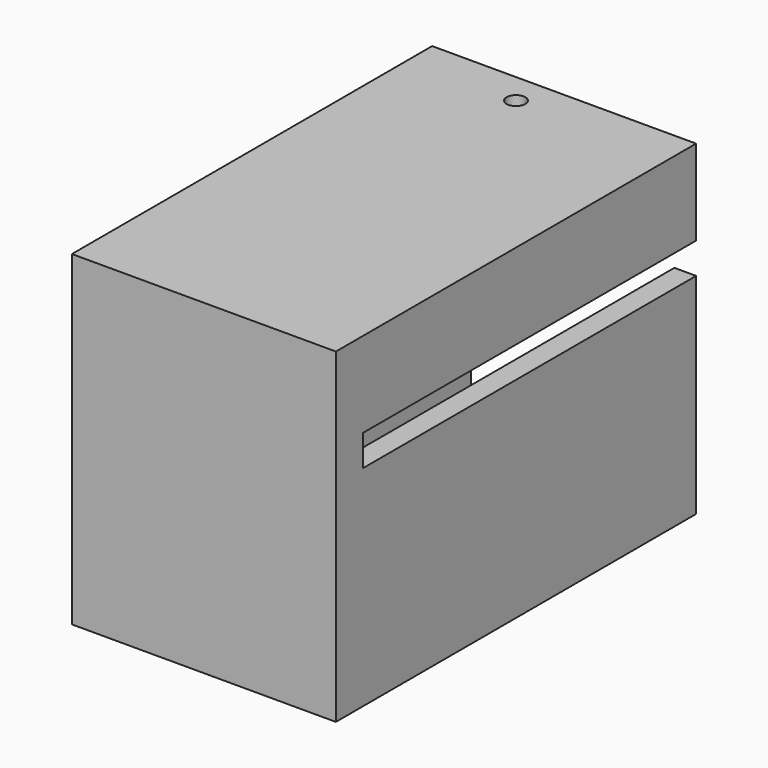
from build123d import *

# Parameters (mm, degrees)
SKETCH266_W     = 17
SKETCH266_H     = 21
PAD176_DEPTH    = 29
SKETCH262_W     = 13.1
SKETCH262_H     = 17
POCKET032_DEPTH = 25.7
SKETCH249_W     = 11.5
SKETCH249_H     = 1.2
SKETCH249_W_2   = 1.4
SKETCH249_H_2   = 2
POCKET034_DEPTH = 26.8
SKETCH252_R     = 0.6
POCKET036_DEPTH = 50
SKETCH259_W     = 0.6
SKETCH259_H     = 3
POCKET033_DEPTH = 2.5


with BuildPart() as part:
    # Sketch266 → Pad176 (new body)
    with BuildSketch(Plane.XZ):
        with Locations((1.5, 2)):
            Rectangle(SKETCH266_W, SKETCH266_H)
    extrude(amount=PAD176_DEPTH)

    # Sketch262 (on Face5 of Pad176) → Pocket032 (cut)
    with BuildSketch(Plane(origin=(0, 0, 0), x_dir=(1, 0, 0), z_dir=(0, 1, 0))):
        with Locations((2.05, -2)):
            Rectangle(SKETCH262_W, SKETCH262_H)
    extrude(amount=-POCKET032_DEPTH, mode=Mode.SUBTRACT)

    # Sketch249 (on Face4 of Pocket032) → Pocket034 (cut)
    with BuildSketch(Plane(origin=(0, 0, 0), x_dir=(1, 0, 0), z_dir=(0, 1, 0))):
        Rectangle(SKETCH249_W, SKETCH249_H)
        with Locations((9.3, -6)):
            Rectangle(SKETCH249_W_2, SKETCH249_H_2)
    extrude(amount=-POCKET034_DEPTH, mode=Mode.SUBTRACT)

    # Sketch252 (on Face6 of Pocket034) → Pocket036 (cut)
    with BuildSketch(Plane(origin=(0, 0, -8.5), x_dir=(1, 0, 0), z_dir=(0, 0, -1))):
        with Locations((0, 2)):
            Circle(SKETCH252_R)
    extrude(amount=-POCKET036_DEPTH, mode=Mode.SUBTRACT)

    # Sketch259 (on Face21 of Pocket036) → Pocket033 (cut)
    with BuildSketch(Plane(origin=(8.6, 0, 0), x_dir=(0, 0, 1), z_dir=(1, 0, 0))):
        with Locations((0, -9)):
            Rectangle(SKETCH259_W, SKETCH259_H)
    extrude(amount=-POCKET033_DEPTH, mode=Mode.SUBTRACT)


solid = part.part
